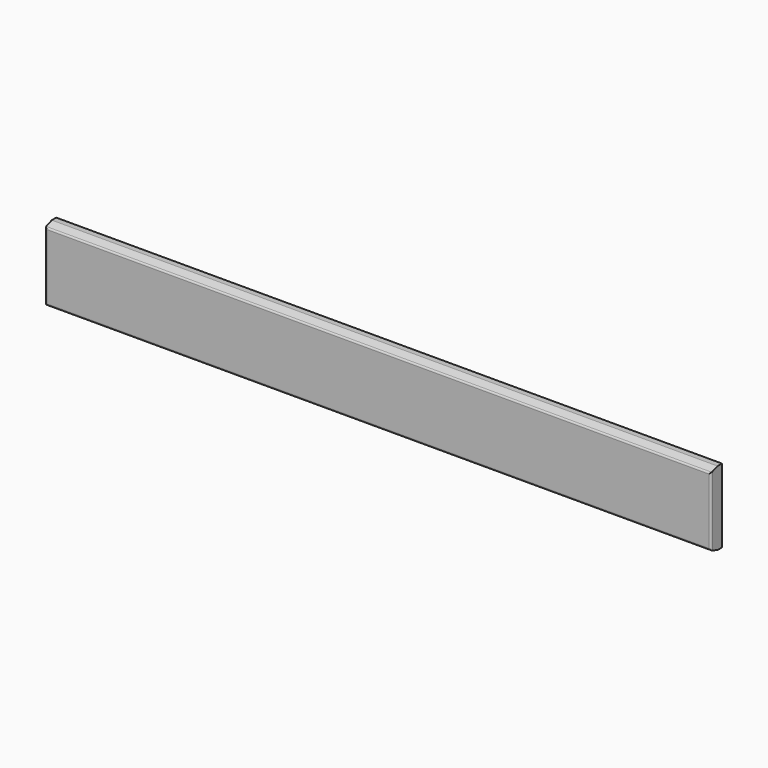
from build123d import *

# Parameters (mm, degrees)
F0_W     = 1828.8
F0_H     = 203.2
F1_DEPTH = 38.1
F2_SIZE2 = 8.3203595553
F2_SIZE  = 22.86
F3_SIZE2 = 8.3203595553
F3_SIZE  = 22.86
F4_R     = 5.08


with BuildPart() as f1:
    # F0 (on Front) → F1 (new body)
    with BuildSketch(Plane.XZ):
        with Locations((-47.5488106235, 0)):
            Rectangle(F0_W, F0_H)
    extrude(amount=F1_DEPTH)

    # F2
    f2_edges = [f1.edges().sort_by_distance(p)[0] for p in [
        (-47.548811, -38.1, 101.6),
    ]]
    f2_side = f1.faces().sort_by_distance((-47.548811, -19.05, 101.6))[0]
    chamfer(f2_edges, length=F2_SIZE, length2=F2_SIZE2, reference=f2_side)

    # F3
    f3_edges = [f1.edges().sort_by_distance(p)[0] for p in [
        (-47.548811, -38.1, -101.6),
    ]]
    f3_side = f1.faces().sort_by_distance((-47.548811, -19.05, -101.6))[0]
    chamfer(f3_edges, length=F3_SIZE, length2=F3_SIZE2, reference=f3_side)

    # F4
    f4_edges = [f1.edges().sort_by_distance(p)[0] for p in [
        (-961.948811, -38.1, 0),
        (-47.548811, -38.1, -93.27964),
        (-47.548811, -38.1, 93.27964),
        (866.851189, -38.1, 0),
    ]]
    fillet(f4_edges, radius=F4_R)


solid = f1.part
